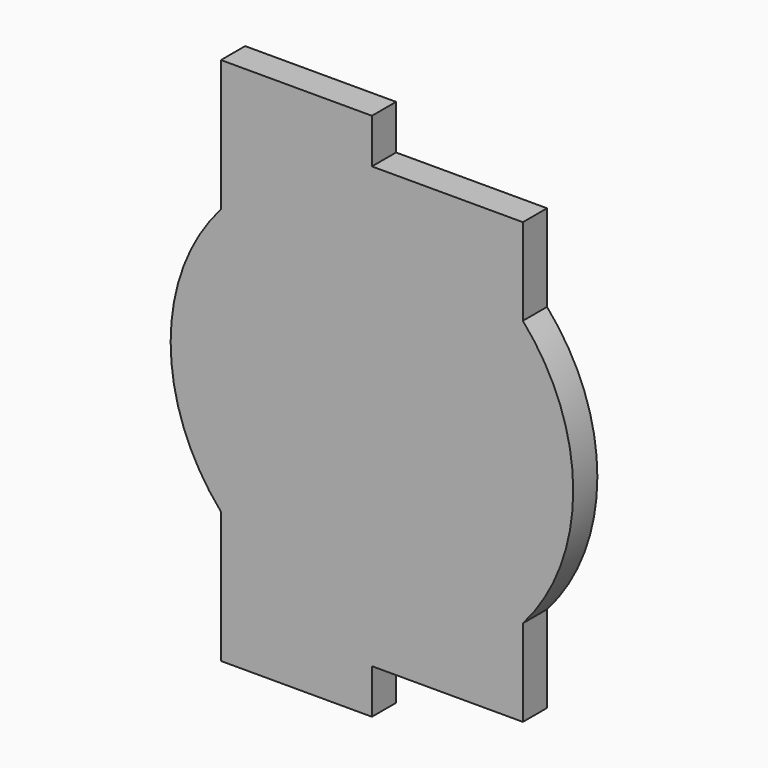
from build123d import *

# Parameters (mm, degrees)
F1_DEPTH = 2.1


with BuildPart() as f1:
    # F0 (on Front) → F1 (new body)
    with BuildSketch(Plane.XZ):
        with BuildLine():
            Line((-10.5, 18.4), (-10.5, 9.26013))
            ThreePointArc((-10.5, 9.26013), (-14, 0), (-10.5, -9.26013))
            Line((-10.5, -9.26013), (-10.5, -18.4))
            Line((-10.5, -18.4), (0, -18.4))
            Line((0, -18.4), (0, -15.3))
            Line((0, -15.3), (10.5, -15.3))
            Line((10.5, -15.3), (10.5, -9.26013))
            ThreePointArc((10.5, -9.26013), (14, 0), (10.5, 9.26013))
            Line((10.5, 9.26013), (10.5, 15.3))
            Line((10.5, 15.3), (0, 15.3))
            Line((0, 15.3), (0, 18.4))
            Line((0, 18.4), (-10.5, 18.4))
        make_face()
    extrude(amount=F1_DEPTH)


solid = f1.part
